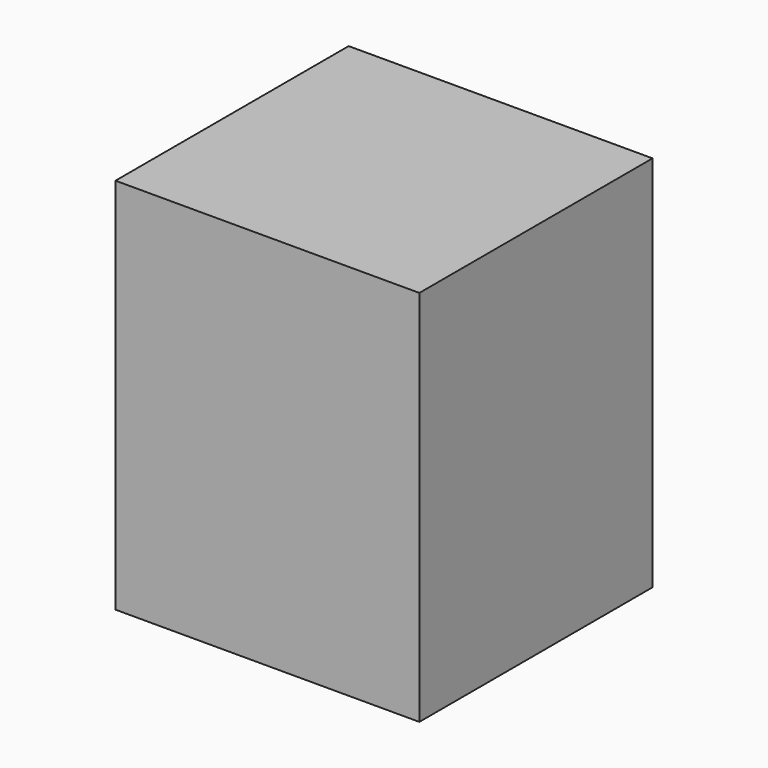
from build123d import *

# Parameters (mm, degrees)
F0_W     = 41.7032390833
F0_H     = 51.8277063966
F1_DEPTH = 60
F2_DEPTH = 20


with BuildPart() as f1:
    # F0 (on Front) → F1 (new body)
    with BuildSketch(Plane.XZ):
        with Locations((-11.2092420459, 25.9138531983)):
            Rectangle(F0_W, F0_H)
    extrude(amount=F1_DEPTH)

    # F2 (cut): a face of the model
    f2_faces = [f1.faces().sort_by_distance(p)[0] for p in [
        (-11.2092420459, -60, 25.9138531983),
    ]]
    extrude(f2_faces, amount=-F2_DEPTH, mode=Mode.SUBTRACT)


solid = f1.part
